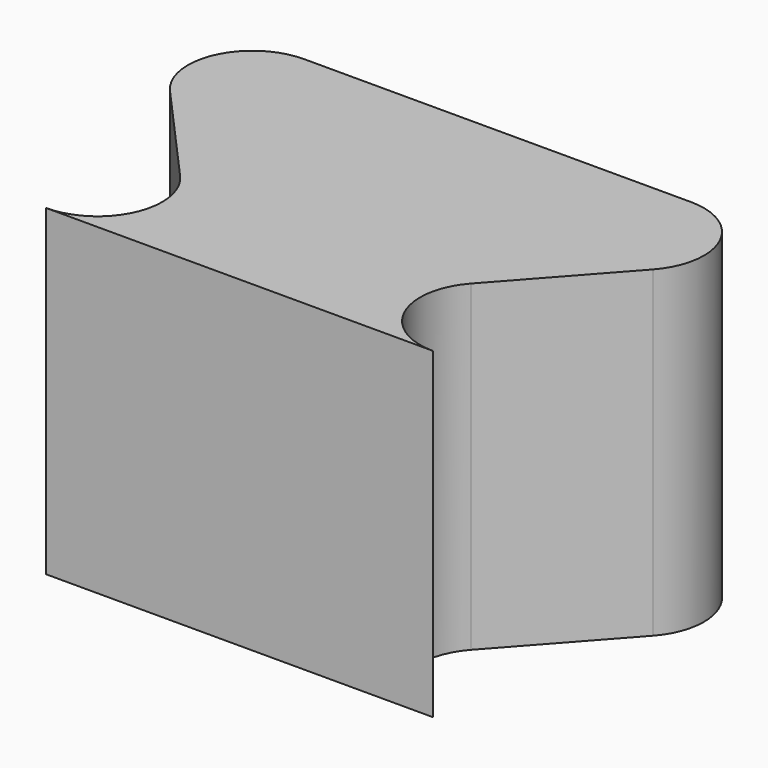
from build123d import *

# Parameters (mm, degrees)
F1_DEPTH = 5


with BuildPart() as f1:
    # F0 (on Top) → F1 (new body)
    with BuildSketch(Plane.XY):
        with BuildLine():
            Line((0, 5), (-3, 5))
            ThreePointArc((-3, 5), (-3.912871, 4.408248), (-3.745356, 3.333333))
            Line((-3.745356, 3.333333), (-2.254644, 1.666667))
            ThreePointArc((-2.254644, 1.666667), (-2.087129, 0.591752), (-3, 0))
            Line((-3, 0), (0, 0))
            Line((0, 0), (0, 5))
        make_face()
    extrude(amount=F1_DEPTH)

    # F2: F1 across face


with BuildPart() as f1_1:
    add(f1.part)
    add(f1.part.mirror(Plane(origin=(0, 2.5, 2.5), x_dir=(0, 1, 0), z_dir=(1, 0, 0))))


solid = f1_1.part
